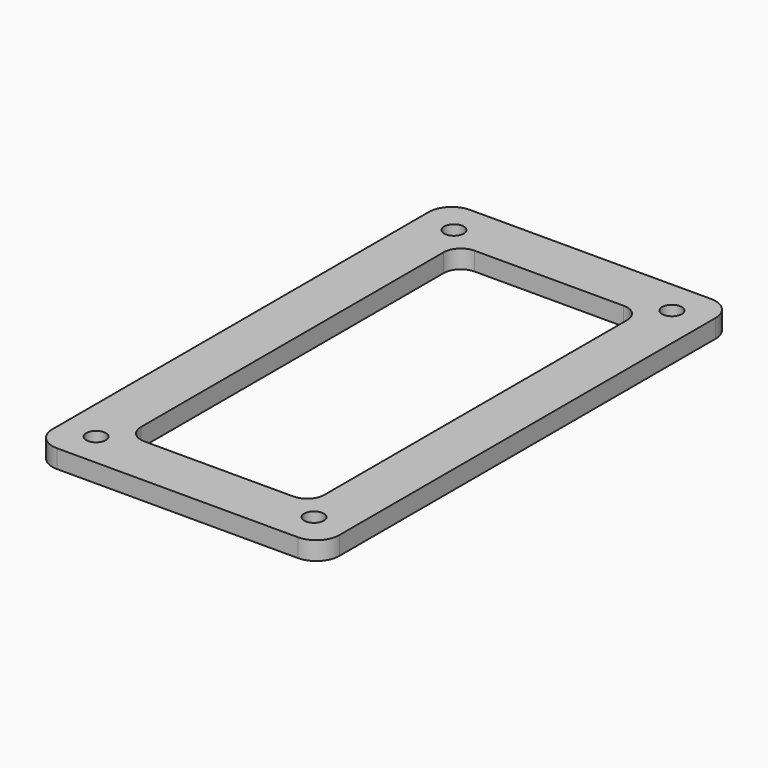
from build123d import *

# Parameters (mm, degrees)
PAD_DEPTH       = 3.2
SKETCH007_R     = 1.7
POCKET003_DEPTH = 3.201
POCKET_DEPTH    = 3.201


with BuildPart() as part:
    # Sketch → Pad (new body)
    with BuildSketch(Plane.XY):
        with BuildLine():
            Line((-21, 45), (21, 45))
            ThreePointArc((25, 41), (23.828427, 43.828427), (21, 45))
            Line((25, 41), (25, -41))
            ThreePointArc((21, -45), (23.828427, -43.828427), (25, -41))
            Line((21, -45), (-21, -45))
            ThreePointArc((-25, -41), (-23.828427, -43.828427), (-21, -45))
            Line((-25, -41), (-25, 41))
            ThreePointArc((-21, 45), (-23.828427, 43.828427), (-25, 41))
        make_face()
    extrude(amount=PAD_DEPTH)

    # Sketch007 → Pocket003 (cut, through all)
    with BuildSketch(Plane.XY.offset(3.2)):
        with Locations((-19, 39)):
            Circle(SKETCH007_R)
        with Locations((19, 39)):
            Circle(SKETCH007_R)
        with Locations((-19, -39)):
            Circle(SKETCH007_R)
        with Locations((19, -39)):
            Circle(SKETCH007_R)
    extrude(amount=-POCKET003_DEPTH, mode=Mode.SUBTRACT)

    # Sketch001 (on Face9 of Pad) → Pocket (cut, through all)
    with BuildSketch(Plane(origin=(0, 0, 0), x_dir=(1, 0, 0), z_dir=(0, 0, -1))):
        with BuildLine():
            Line((-13, 36), (13, 36))
            ThreePointArc((16, 33), (15.12132, 35.12132), (13, 36))
            Line((16, 33), (16, -33))
            ThreePointArc((13, -36), (15.12132, -35.12132), (16, -33))
            Line((13, -36), (-13, -36))
            ThreePointArc((-16, -33), (-15.12132, -35.12132), (-13, -36))
            Line((-16, -33), (-16, 33))
            ThreePointArc((-13, 36), (-15.12132, 35.12132), (-16, 33))
        make_face()
    extrude(amount=-POCKET_DEPTH, mode=Mode.SUBTRACT)


solid = part.part
